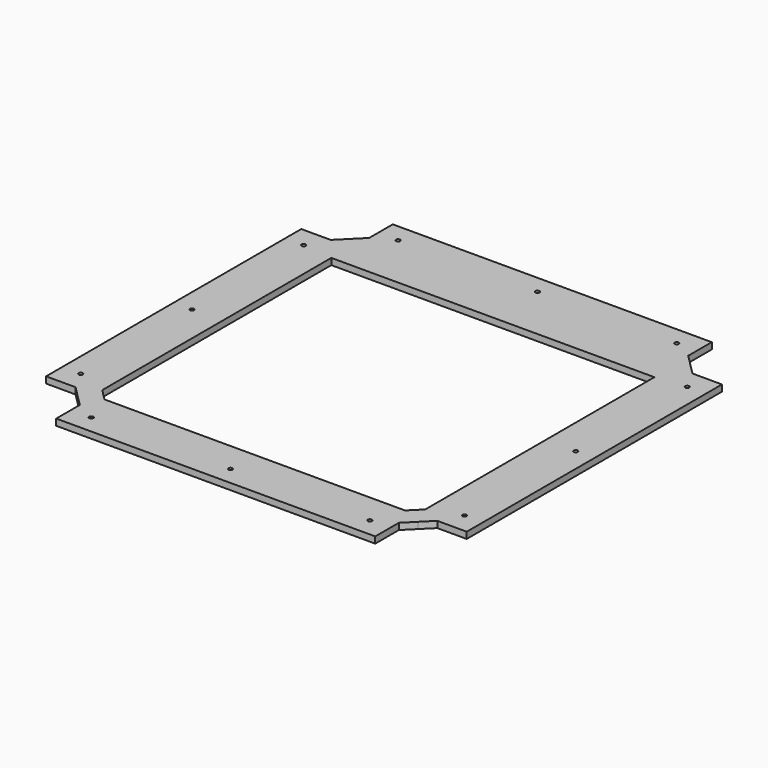
from build123d import *

# Parameters (mm, degrees)
F0_R     = 2.01
F1_DEPTH = 6.35


with BuildPart() as f1:
    # F0 (on Top) → F1 (new body)
    with BuildSketch(Plane.XY):
        Polygon((-158, 208.35), (-158, 194.175), (-158, 179.1715728753), (-168.5857864376, 168.5857864376), (-179.1715728753, 158), (-194.175, 158), (-208.35, 158), (-208.35, -158), (-194.175, -158), (-179.1715728753, -158), (-168.5857864376, -168.5857864376), (-158, -179.1715728753), (-158, -194.175), (-158, -208.35), (158, -208.35), (158, -194.175), (158, -179.1715728753), (168.5857864376, -168.5857864376), (179.1715728753, -158), (194.175, -158), (208.35, -158), (208.35, 158), (194.175, 158), (179.1715728753, 158), (168.5857864376, 168.5857864376), (158, 179.1715728753), (158, 194.175), (158, 208.35), align=None)
        with Locations((-138, -190)):
            Circle(F0_R, mode=Mode.SUBTRACT)
        with Locations((-190, -138)):
            Circle(F0_R, mode=Mode.SUBTRACT)
        with Locations((0, -190)):
            Circle(F0_R, mode=Mode.SUBTRACT)
        with Locations((138, -190)):
            Circle(F0_R, mode=Mode.SUBTRACT)
        with Locations((190, -138)):
            Circle(F0_R, mode=Mode.SUBTRACT)
        Polygon((160, -148.8873016278), (154.4436508139, -154.4436508139), (148.8873016278, -160), (-148.8873016278, -160), (-154.4436508139, -154.4436508139), (-160, -148.8873016278), (-160, 134.7498200814), (160, 134.82), align=None, mode=Mode.SUBTRACT)
        with Locations((-190, 0)):
            Circle(F0_R, mode=Mode.SUBTRACT)
        with Locations((-190, 138)):
            Circle(F0_R, mode=Mode.SUBTRACT)
        with Locations((-138, 190)):
            Circle(F0_R, mode=Mode.SUBTRACT)
        with Locations((190, 0)):
            Circle(F0_R, mode=Mode.SUBTRACT)
        with Locations((0, 190)):
            Circle(F0_R, mode=Mode.SUBTRACT)
        with Locations((190, 138)):
            Circle(F0_R, mode=Mode.SUBTRACT)
        with Locations((138, 190)):
            Circle(F0_R, mode=Mode.SUBTRACT)
    extrude(amount=F1_DEPTH)


solid = f1.part
